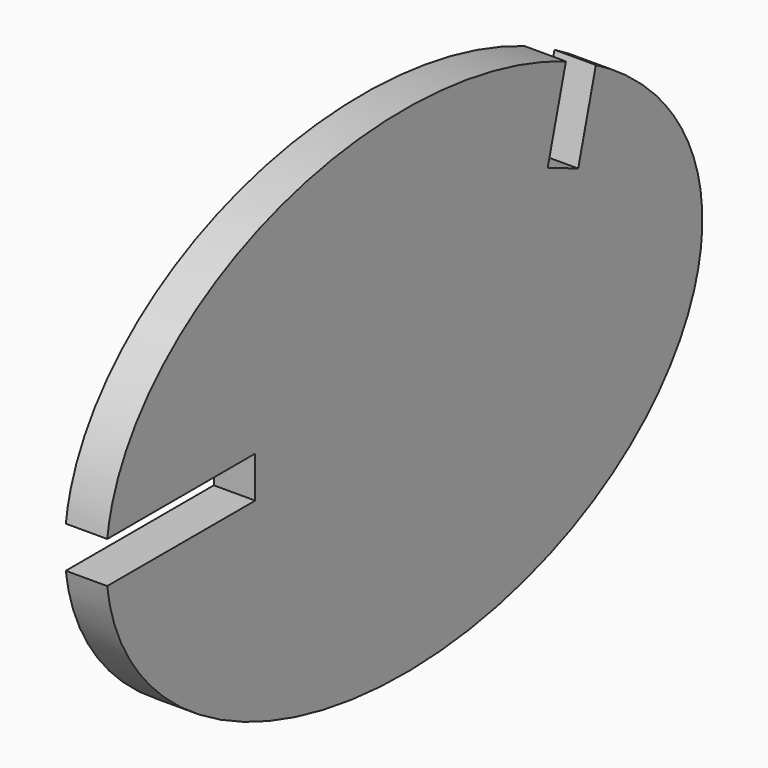
from build123d import *

# Parameters (mm, degrees)
PAD_DEPTH = 50.8


with BuildPart() as part:
    # Sketch → Pad (new body)
    with BuildSketch(Plane.YZ):
        with BuildLine():
            Line((-228.6, -24.796869), (-455.65473, -24.796869))
            add(Edge.make_bspline(
                [(-455.65473, -24.796869), (-399.291548, -480.679242), (210.084192, -270.828372), (819.459932, -60.977501), (293.896464, 233.326256)],
                knots=[0.082882, 0.082882, 0.082882, 2.048869, 2.048869, 4.014856, 4.014856, 4.014856], degree=2, weights=[1, 0.554534, 1, 0.554534, 1]))
            Line((293.896464, 233.326256), (266.795135, 132.569061))
            Line((266.795135, 132.569061), (220.025766, 152.4))
            Line((220.025766, 152.4), (247.97367, 255.941865))
            add(Edge.make_bspline(
                [(247.97367, 255.941865), (-391.258638, 531.398878), (-455.564276, 26.003131)],
                knots=[4.139767, 4.139767, 4.139767, 6.199207, 6.199207, 6.199207], degree=2, weights=[1, 0.515059, 1]))
            Line((-455.564276, 26.003131), (-228.6, 26.003131))
            Line((-228.6, 26.003131), (-228.6, -24.796869))
        make_face()
    extrude(amount=PAD_DEPTH)


solid = part.part
